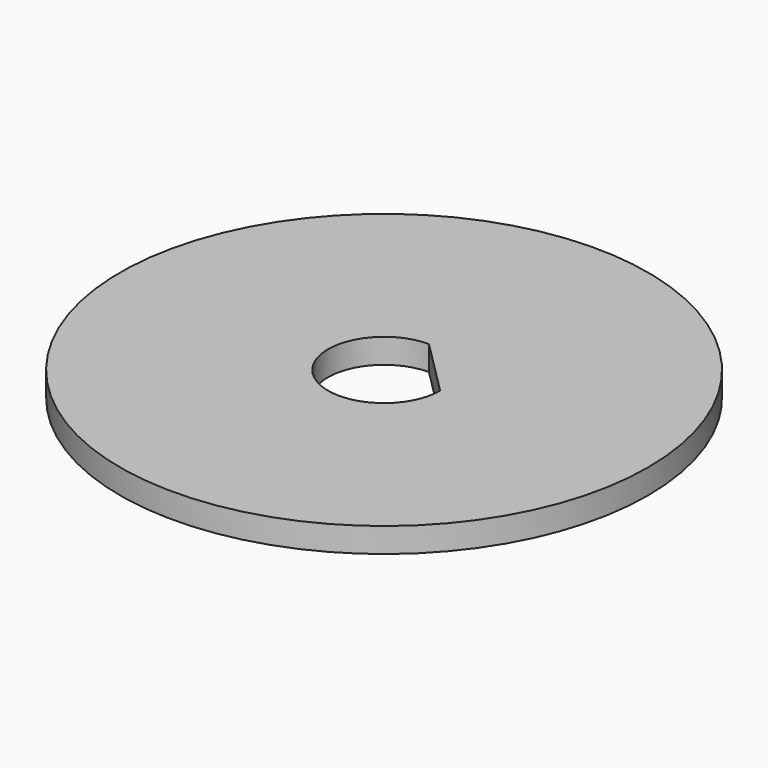
from build123d import *

# Parameters (mm, degrees)
F0_R     = 50.8
F1_DEPTH = 4.7498


with BuildPart() as f1:
    # F0 (on Top) → F1 (new body)
    with BuildSketch(Plane.XY):
        Circle(F0_R)
        with BuildLine():
            ThreePointArc((10.795, 0), (-7.633218, -7.633218), (0, 10.795))
            Line((0, 10.795), (10.795, 0))
        make_face(mode=Mode.SUBTRACT)
    extrude(amount=F1_DEPTH)


solid = f1.part
